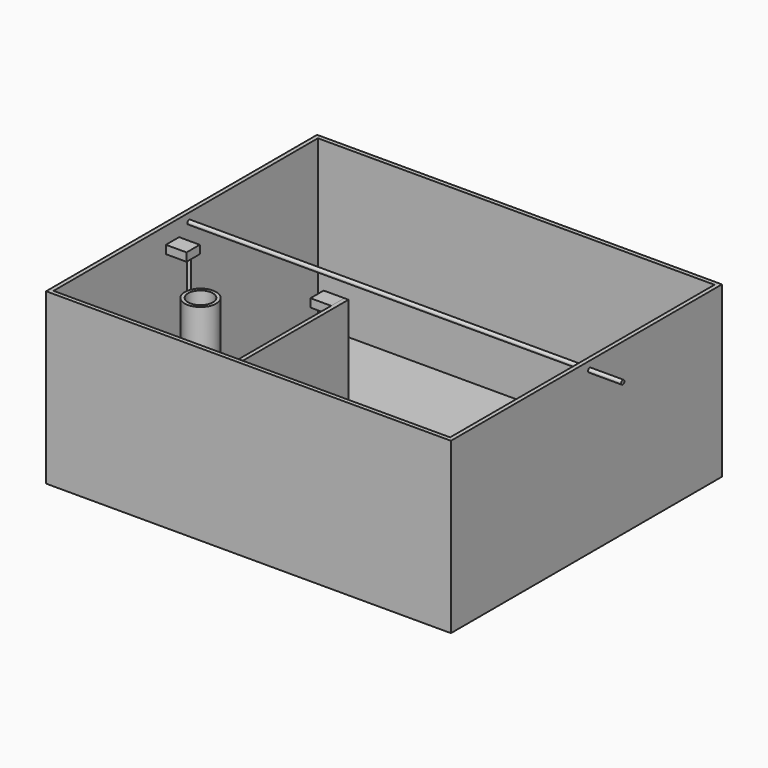
from build123d import *

# Parameters (mm, degrees)
F0_W           = 311.15
F0_H           = 260.35
F0_W_2         = 304.8
F0_H_2         = 254
F1_DEPTH       = 127
F2_W           = 311.15
F2_H           = 260.35
F3_DEPTH       = 3.175
F4_R           = 1.27
F5_DEPTH       = 114.3
F6_W           = 15.875
F6_H           = 12.7
F7_DEPTH       = 6.35
F11_W          = 120.65
F11_H          = 114.3
F12_DEPTH      = 3.175
F13_R          = 2.38125
F13_R_2        = 1.61925
F14_DEPTH      = 6.35
F16_W          = 114.3
F16_H          = 114.3
F16_R          = 1.61925
F16_R_2        = 1.27
F17_DEPTH      = 1.27
F18_R          = 1.5875
F19_DEPTH      = 311.151
F20_R          = 1.5875
F21_DEPTH      = 25.4
F21_DEPTH_BACK = 311.15
F22_R          = 7.9375
F22_R_2        = 6.35
F23_DEPTH      = 6.35
F24_R          = 12.065
F24_R_2        = 9.525
F25_DEPTH      = 107.95
F26_R          = 5
F27_DEPTH      = 7.621


with BuildPart() as f1:
    # F0 (on Top) → F1 (new body)
    with BuildSketch(Plane.XY):
        Rectangle(F0_W, F0_H)
        Rectangle(F0_W_2, F0_H_2, mode=Mode.SUBTRACT)
    extrude(amount=F1_DEPTH)

    # F2 (on face) → F3 (join)
    with BuildSketch(Plane(origin=(0, 0, 0), x_dir=(1, 0, 0), z_dir=(0, 0, -1))):
        Rectangle(F2_W, F2_H)
    extrude(amount=F3_DEPTH)

    # F18 (on face) → F19 (cut, through all)
    with BuildSketch(Plane.YZ.offset(155.575)):
        with Locations((3.175, 120.65)):
            Circle(F18_R)
    extrude(amount=-F19_DEPTH, mode=Mode.SUBTRACT)


with BuildPart() as f5:
    # F4 (on face) → F5 (new body)
    with BuildSketch(Plane.XY):
        with Locations((-139.7, -114.3)):
            Circle(F4_R)
    extrude(amount=F5_DEPTH)


with BuildPart() as f5b:
    # F4 (on face) → F5, piece 2 (new body)
    with BuildSketch(Plane.XY):
        with Locations((-38.1, -114.3)):
            Circle(F4_R)
    extrude(amount=F5_DEPTH)


with BuildPart() as f5c:
    # F4 (on face) → F5, piece 3 (new body)
    with BuildSketch(Plane.XY):
        with Locations((-139.7, -12.7)):
            Circle(F4_R)
    extrude(amount=F5_DEPTH)


with BuildPart() as f5d:
    # F4 (on face) → F5, piece 4 (new body)
    with BuildSketch(Plane.XY):
        with Locations((-38.1, -12.7)):
            Circle(F4_R)
    extrude(amount=F5_DEPTH)


with BuildPart() as f7:
    # F6 (on face) → F7 (new body)
    with BuildSketch(Plane.XY.offset(114.3)):
        with Locations((-144.4625, -12.7)):
            Rectangle(F6_W, F6_H)
    extrude(amount=-F7_DEPTH)


with BuildPart() as f7b:
    # F6 (on face) → F7, piece 2 (new body)
    with BuildSketch(Plane.XY.offset(114.3)):
        with Locations((-144.4625, -114.3)):
            Rectangle(F6_W, F6_H)
    extrude(amount=-F7_DEPTH)


with BuildPart() as f10_1:
    # F10: instance of F7
    add(f7.part.mirror(Plane(origin=(-88.9, -114.3, 114.3), x_dir=(0, 1, 0), z_dir=(1, 0, 0))))


with BuildPart() as f10_2:
    # F10: instance of F7b
    add(f7b.part.mirror(Plane(origin=(-88.9, -114.3, 114.3), x_dir=(0, 1, 0), z_dir=(1, 0, 0))))


with BuildPart() as f12:
    # F11 (on face) → F12 (new body)
    with BuildSketch(Plane.YZ.offset(-25.4)):
        with Locations((-66.675, 57.15)):
            Rectangle(F11_W, F11_H)
    extrude(amount=F12_DEPTH)


with BuildPart() as f14:
    # F13 (on face) → F14 (new body)
    with BuildSketch(Plane.XY):
        with Locations((-139.7, -12.7)):
            Circle(F13_R)
        with Locations((-139.7, -12.7)):
            Circle(F13_R_2, mode=Mode.SUBTRACT)
    extrude(amount=F14_DEPTH)


with BuildPart() as f14b:
    # F13 (on face) → F14, piece 2 (new body)
    with BuildSketch(Plane.XY):
        with Locations((-38.1, -12.7)):
            Circle(F13_R)
        with Locations((-38.1, -12.7)):
            Circle(F13_R_2, mode=Mode.SUBTRACT)
    extrude(amount=F14_DEPTH)


with BuildPart() as f14c:
    # F13 (on face) → F14, piece 3 (new body)
    with BuildSketch(Plane.XY):
        with Locations((-139.7, -114.3)):
            Circle(F13_R)
        with Locations((-139.7, -114.3)):
            Circle(F13_R_2, mode=Mode.SUBTRACT)
    extrude(amount=F14_DEPTH)


with BuildPart() as f14d:
    # F13 (on face) → F14, piece 4 (new body)
    with BuildSketch(Plane.XY):
        with Locations((-38.1, -114.3)):
            Circle(F13_R)
        with Locations((-38.1, -114.3)):
            Circle(F13_R_2, mode=Mode.SUBTRACT)
    extrude(amount=F14_DEPTH)


with BuildPart() as f17:
    # F16 (on mid) → F17 (new body, symmetric)
    with BuildSketch(Plane.XY.offset(3.175)):
        with Locations((-88.9, -63.5)):
            Rectangle(F16_W, F16_H)
        with Locations((-139.7, -114.3)):
            Circle(F16_R, mode=Mode.SUBTRACT)
        with Locations((-38.1, -114.3)):
            Circle(F16_R, mode=Mode.SUBTRACT)
        with Locations((-139.7, -12.7)):
            Circle(F16_R_2, mode=Mode.SUBTRACT)
        with Locations((-38.1, -12.7)):
            Circle(F16_R, mode=Mode.SUBTRACT)
    extrude(amount=F17_DEPTH, both=True)

    # F26 (on face) → F27 (cut, through all)
    with BuildSketch(Plane.XY.offset(4.445)):
        with Locations((-95.25, -57.15)):
            Circle(F26_R)
    extrude(amount=-F27_DEPTH, mode=Mode.SUBTRACT)


with BuildPart() as f21:
    # F20 (on face) → F21 (new body, two sides)
    with BuildSketch(Plane.YZ.offset(155.575)) as f21_sk:
        with Locations((3.175, 120.65)):
            Circle(F20_R)
    extrude(amount=F21_DEPTH)
    extrude(f21_sk.sketch, amount=-F21_DEPTH_BACK)


with BuildPart() as f23:
    # F22 (on face) → F23 (new body)
    with BuildSketch(Plane.XY.offset(4.445)):
        with Locations((-95.25, -57.15)):
            Circle(F22_R)
        with Locations((-95.25, -57.15)):
            Circle(F22_R_2, mode=Mode.SUBTRACT)
    extrude(amount=F23_DEPTH)


with BuildPart() as f25:
    # F24 (on face) → F25 (new body)
    with BuildSketch(Plane.XY.offset(4.445)):
        with Locations((-95.4049602151, -57.0300891995)):
            Circle(F24_R)
        with Locations((-95.4049602151, -57.0300891995)):
            Circle(F24_R_2, mode=Mode.SUBTRACT)
    extrude(amount=F25_DEPTH)


solid = Compound([f1.part, f5.part, f5b.part, f5c.part, f5d.part, f7.part, f7b.part, f10_1.part, f10_2.part, f12.part, f14.part, f14b.part, f14c.part, f14d.part, f17.part, f21.part, f23.part, f25.part])
